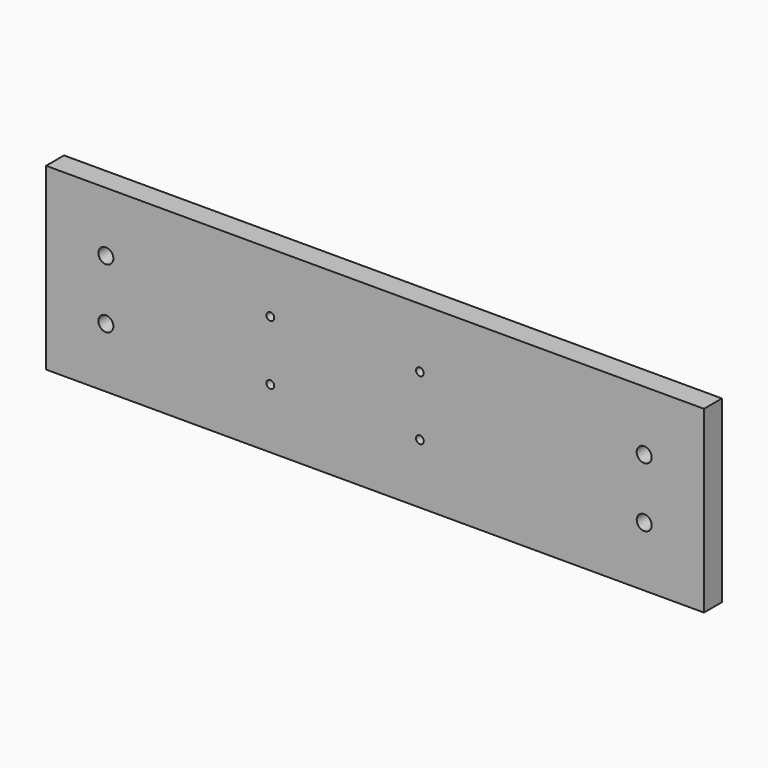
from build123d import *

# Parameters (mm, degrees)
F0_R     = 3.175
F0_R_2   = 1.651
F1_DEPTH = 9.525


with BuildPart() as f1:
    # F0 (on Front) → F1 (new body)
    with BuildSketch(Plane.XZ):
        Polygon((0, 38.1), (-139.7, 38.1), (-139.7, 0), (-139.7, -38.1), (139.7, -38.1), (139.7, 38.1), align=None)
        with Locations((-114.3, -12.7)):
            Circle(F0_R, mode=Mode.SUBTRACT)
        with Locations((-44.45, -12.7)):
            Circle(F0_R_2, mode=Mode.SUBTRACT)
        with Locations((19.05, -12.7)):
            Circle(F0_R_2, mode=Mode.SUBTRACT)
        with Locations((114.3, -12.7)):
            Circle(F0_R, mode=Mode.SUBTRACT)
        with Locations((-114.3, 12.7)):
            Circle(F0_R, mode=Mode.SUBTRACT)
        with Locations((-44.45, 12.7)):
            Circle(F0_R_2, mode=Mode.SUBTRACT)
        with Locations((19.05, 12.7)):
            Circle(F0_R_2, mode=Mode.SUBTRACT)
        with Locations((114.3, 12.7)):
            Circle(F0_R, mode=Mode.SUBTRACT)
    extrude(amount=F1_DEPTH)


solid = f1.part
